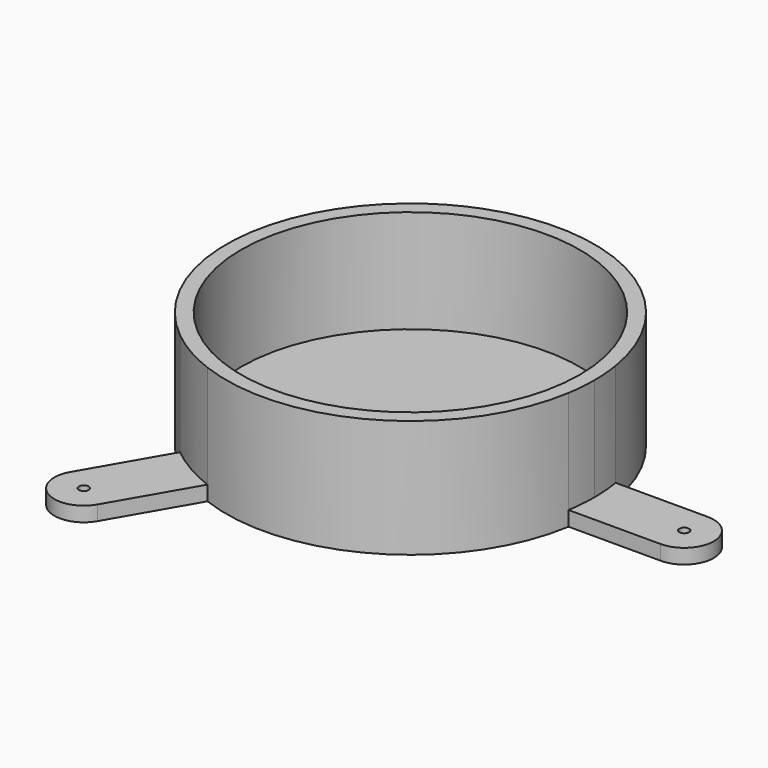
from build123d import *

# Parameters (mm, degrees)
F3_DEPTH = 5
F5_D     = 3.3
F6_R     = 4.5
F7_DEPTH = 5
F8_R     = 57.5
F9_DEPTH = 35


with BuildPart() as f3:
    # F2 (on Top) → F3 (new body)
    with BuildSketch(Plane.XY):
        with BuildLine():
            ThreePointArc((-39.507660736, 48.4292756829), (-31.25, 54.1265877365), (-22.1871526603, 58.4292756829))
            Line((-22.1871526603, 58.4292756829), (-37.8397459622, 85.540362552))
            ThreePointArc((-37.8397459622, 85.540362552), (-51.5, 89.2006165898), (-55.1602540378, 75.540362552))
            Line((-55.1602540378, 75.540362552), (-39.507660736, 48.4292756829))
        make_face()
        with BuildLine():
            ThreePointArc((61.6948133963, -10), (62.2983781381, -5.0161819511), (62.5, 0))
            ThreePointArc((62.5, 0), (62.2983781381, 5.0161819511), (61.6948133963, 10))
            ThreePointArc((61.6948133963, 10), (31.25, 54.1265877365), (-22.1871526603, 58.4292756829))
            ThreePointArc((-22.1871526603, 58.4292756829), (-31.25, 54.1265877365), (-39.507660736, 48.4292756829))
            ThreePointArc((-39.507660736, 48.4292756829), (-62.5, 0), (-39.507660736, -48.4292756829))
            ThreePointArc((-39.507660736, -48.4292756829), (-31.25, -54.1265877365), (-22.1871526603, -58.4292756829))
            ThreePointArc((-22.1871526603, -58.4292756829), (31.25, -54.1265877365), (61.6948133963, -10))
        make_face()
        with BuildLine():
            ThreePointArc((61.6948133963, 10), (62.2983781381, 5.0161819511), (62.5, 0))
            ThreePointArc((62.5, 0), (62.2983781381, -5.0161819511), (61.6948133963, -10))
            Line((61.6948133963, -10), (93, -10))
            ThreePointArc((93, -10), (103, 0), (93, 10))
            Line((93, 10), (61.6948133963, 10))
        make_face()
        with BuildLine():
            Line((-37.8397459622, -85.540362552), (-22.1871526603, -58.4292756829))
            ThreePointArc((-22.1871526603, -58.4292756829), (-31.25, -54.1265877365), (-39.507660736, -48.4292756829))
            Line((-39.507660736, -48.4292756829), (-55.1602540378, -75.540362552))
            ThreePointArc((-55.1602540378, -75.540362552), (-51.5, -89.2006165898), (-37.8397459622, -85.540362552))
        make_face()
    extrude(amount=F3_DEPTH)

    # F5 (through all)
    with Locations(Plane.XY.offset(5)):
        with Locations((-46.5, 80.540362552), (93, 0), (-46.5, -80.540362552)):
            Hole(F5_D / 2)

    # F6 (on face) → F7 (join)
    with BuildSketch(Plane(origin=(0, 0, 0), x_dir=(1, 0, 0), z_dir=(0, 0, -1))):
        Circle(F6_R)
    extrude(amount=F7_DEPTH)

    # F8 (on face) → F9 (join)
    with BuildSketch(Plane.XY.offset(5)):
        with BuildLine():
            ThreePointArc((61.6948133963, -10), (62.2983781381, -5.0161819511), (62.5, 0))
            ThreePointArc((62.5, 0), (62.2983781381, 5.0161819511), (61.6948133963, 10))
            ThreePointArc((61.6948133963, 10), (31.25, 54.1265877365), (-22.1871526603, 58.4292756829))
            ThreePointArc((-22.1871526603, 58.4292756829), (-31.25, 54.1265877365), (-39.507660736, 48.4292756829))
            ThreePointArc((-39.507660736, 48.4292756829), (-62.5, 0), (-39.507660736, -48.4292756829))
            ThreePointArc((-39.507660736, -48.4292756829), (-31.25, -54.1265877365), (-22.1871526603, -58.4292756829))
            ThreePointArc((-22.1871526603, -58.4292756829), (31.25, -54.1265877365), (61.6948133963, -10))
        make_face()
        Circle(F8_R, mode=Mode.SUBTRACT)
    extrude(amount=F9_DEPTH)


solid = f3.part
